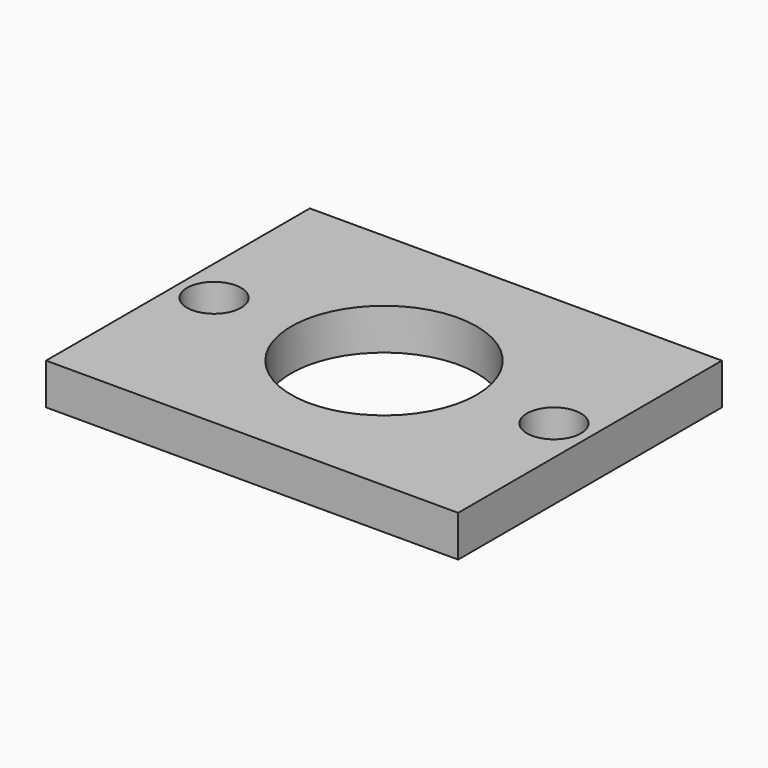
from build123d import *

# Parameters (mm, degrees)
F0_W     = 63.5
F0_H     = 50.8
F0_R     = 4.1656
F0_R_2   = 14.2875
F1_DEPTH = 6.35


with BuildPart() as f1:
    # F0 (on Top) → F1 (new body)
    with BuildSketch(Plane.XY):
        Rectangle(F0_W, F0_H)
        with Locations((-26.1874, 0)):
            Circle(F0_R, mode=Mode.SUBTRACT)
        Circle(F0_R_2, mode=Mode.SUBTRACT)
        with Locations((26.1874, 0)):
            Circle(F0_R, mode=Mode.SUBTRACT)
    extrude(amount=-F1_DEPTH)


solid = f1.part
